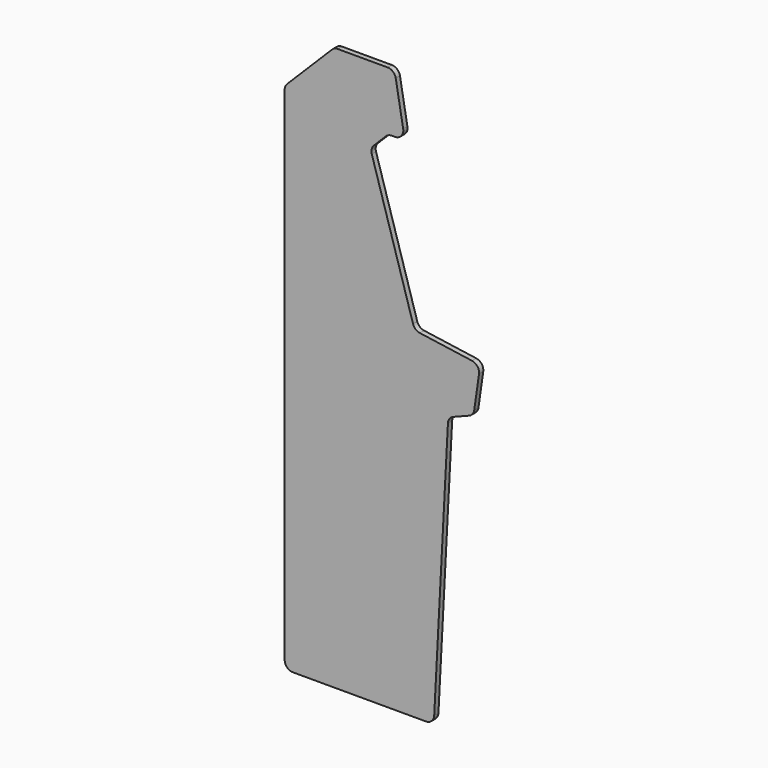
from build123d import *

# Parameters (mm, degrees)
PAD_DEPTH   = 16
FILLET_R    = 25
FILLET001_R = 25


with BuildPart() as part:
    # Sketch → Pad (new body)
    with BuildSketch(Plane.XZ):
        Polygon((0, 0), (0, 1550), (150, 1700), (331.507568, 1700), (362.76424, 1522.734604), (312.76424, 1522.734604), (258.518351, 1468.488715), (392.010101, 1028.284271), (590, 1000), (570, 860), (493.498457, 830), (450, 0), align=None)
    extrude(amount=PAD_DEPTH)

    # Fillet
    fillet_edges = [part.edges().sort_by_distance(p)[0] for p in [
        (362.76424, -8, 1522.734604),
        (331.507568, -8, 1700),
        (150, -8, 1700),
        (0, -8, 1550),
        (0, -8, 0),
        (450, -8, 0),
        (590, -8, 1000),
        (570, -8, 860),
    ]]
    fillet(fillet_edges, radius=FILLET_R)

    # Fillet001
    fillet001_edges = [part.edges().sort_by_distance(p)[0] for p in [
        (493.498457, -8, 830),
        (392.010101, -8, 1028.284271),
        (258.518351, -8, 1468.488715),
        (312.76424, -8, 1522.734604),
    ]]
    fillet(fillet001_edges, radius=FILLET001_R)


solid = part.part
